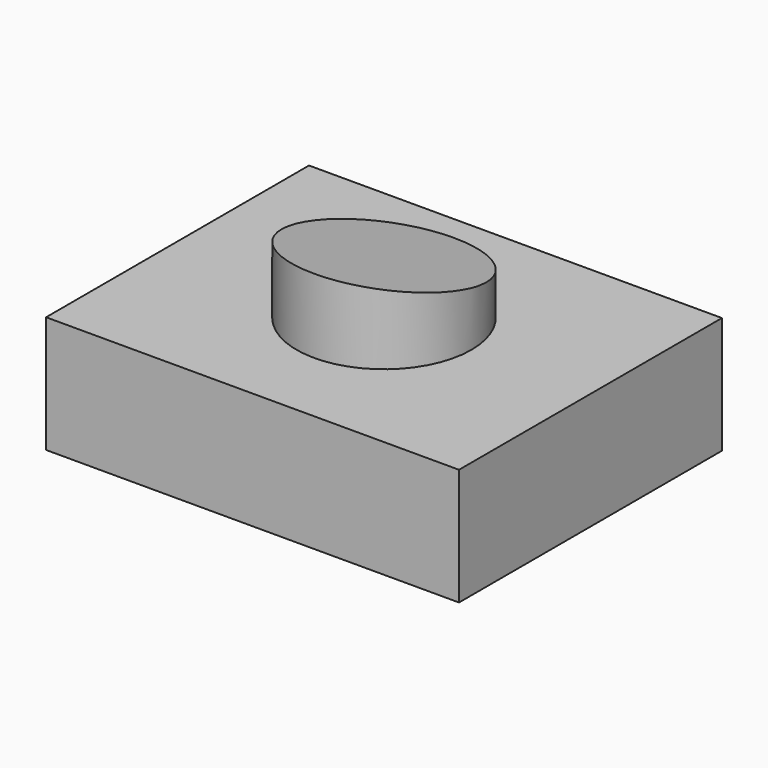
from build123d import *

# Parameters (mm, degrees)
F0_W     = 89.748614
F0_H     = 71.432554
F1_DEPTH = 25.4
F2_R     = 18.988019
F3_DEPTH = 25.4
F5_DEPTH = 635


with BuildPart() as f1:
    # F0 (on Top) → F1 (new body)
    with BuildSketch(Plane.XY):
        Rectangle(F0_W, F0_H)
    extrude(amount=F1_DEPTH)

    # F2 (on face) → F3 (join)
    with BuildSketch(Plane.XY.offset(25.4)):
        Circle(F2_R)
    extrude(amount=F3_DEPTH)

    # F4 (on Right) → F5 (cut, symmetric)
    with BuildSketch(Plane.YZ):
        Polygon((-20.643182, 53.957682), (-20.643182, 41.899621), (23.315316, 31.978432), (23.315316, 53.957682), align=None)
    extrude(amount=F5_DEPTH, both=True, mode=Mode.SUBTRACT)


solid = f1.part
